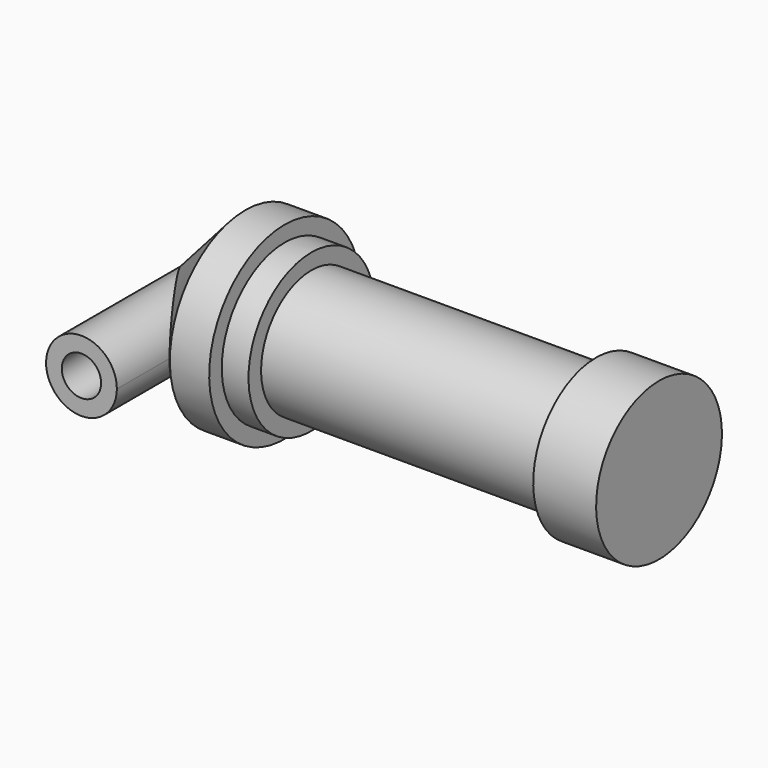
from build123d import *

# Parameters (mm, degrees)
F0_W     = 5.842
F0_H     = 12.7
F0_R     = 3.175
F3_DEPTH = 25.4


with BuildPart() as f1:
    # F0 (on Front) → F1 (revolve)
    with BuildSketch(Plane.XZ):
        with Locations((2.921, 6.35)):
            Rectangle(F0_W, F0_H)
        with BuildLine():
            Line((-0.9398, 0), (0, 0))
            Line((0, 0), (0, 12.7))
            Line((0, 12.7), (5.842, 12.7))
            Line((5.842, 12.7), (5.842, 15.24))
            Line((5.842, 15.24), (-0.508, 15.24))
            Line((-0.508, 15.24), (-10.88063, 3.847543))
            ThreePointArc((-10.88063, 3.847543), (-4.591961, 5.329721), (-0.9398, 0))
        make_face()
    revolve(axis=Axis((33.147, 0, 0), (-1, 0, 0)))

    # F0 (on Front) → F2 (revolve)
    with BuildSketch(Plane.XZ):
        Polygon((5.842, 12.7), (5.842, 0), (66.294, 0), (66.294, 12.7), (56.134, 12.7), (56.134, 10.16), (10.16, 10.16), (10.16, 12.7), align=None)
    revolve(axis=Axis((33.147, 0, 0), (-1, 0, 0)))

    # F0 (on Front) → F3 (join)
    with BuildSketch(Plane.XZ):
        with BuildLine():
            ThreePointArc((-8.182663, -5.506983), (-3.195791, -4.549339), (-0.9398, 0))
            ThreePointArc((-0.9398, 0), (-4.591961, 5.329721), (-10.88063, 3.847543))
            ThreePointArc((-10.88063, 3.847543), (-12.145978, -1.583727), (-8.182663, -5.506983))
        make_face()
        with Locations((-6.6548, 0)):
            Circle(F0_R, mode=Mode.SUBTRACT)
    extrude(amount=F3_DEPTH)


solid = f1.part
